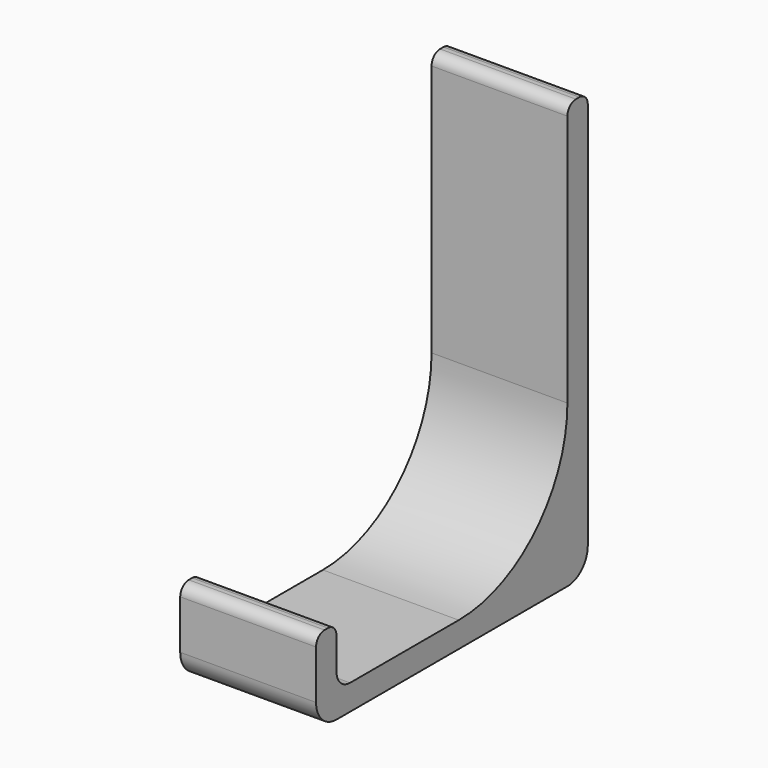
from build123d import *

# Parameters (mm, degrees)
F1_DEPTH = 16
F2_R     = 1.25
F3_R     = 1.25


with BuildPart() as f1:
    # F0 (on Right) → F1 (new body)
    with BuildSketch(Plane.YZ):
        with BuildLine():
            Line((0, -47), (0, 0))
            Line((0, 0), (-3, 0))
            Line((-3, 0), (-3, -31))
            ThreePointArc((-3, -31), (-7.686292, -42.313708), (-19, -47))
            Line((-19, -47), (-35, -47))
            ThreePointArc((-35, -47), (-36.414214, -46.414214), (-37, -45))
            Line((-37, -45), (-37, -40))
            Line((-37, -40), (-40, -40))
            Line((-40, -40), (-40, -47))
            ThreePointArc((-40, -47), (-39.12132, -49.12132), (-37, -50))
            Line((-37, -50), (-3, -50))
            ThreePointArc((-3, -50), (-0.87868, -49.12132), (0, -47))
        make_face()
    extrude(amount=F1_DEPTH)

    # F2
    f2_edges = [f1.edges().sort_by_distance(p)[0] for p in [
        (8, 0, 0),
        (8, -3, 0),
    ]]
    fillet(f2_edges, radius=F2_R)

    # F3
    f3_edges = [f1.edges().sort_by_distance(p)[0] for p in [
        (8, -37, -40),
        (8, -40, -40),
    ]]
    fillet(f3_edges, radius=F3_R)


solid = f1.part
